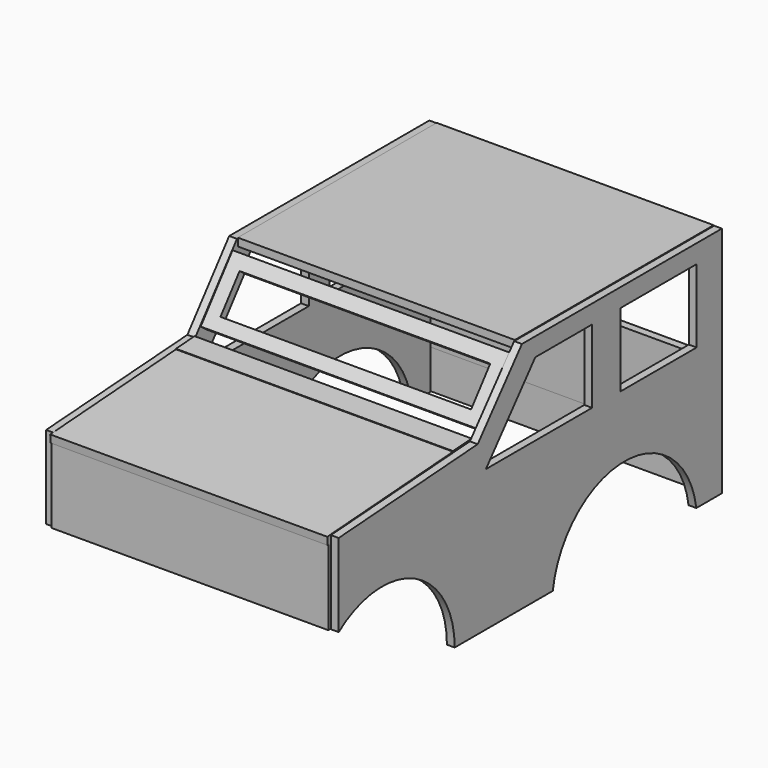
from build123d import *

# Parameters (mm, degrees)
SKETCH_W               = 39.715855
SKETCH_H               = 30
EXTRUDE_DEPTH          = 3
SKETCH001_W            = 36.658256
SKETCH001_H            = 28.340653
EXTRUDE001_DEPTH       = 3
SKETCH002_W            = 106.881084
SKETCH002_H            = 31.778965
EXTRUDE002_DEPTH       = 3
BOX_W                  = 107
BOX_H                  = 96
BOX_DEPTH              = 3
SKETCH004_W            = 96.8
SKETCH004_H            = 15
EXTRUDE004_DEPTH       = 3
SKETCH003_W            = 106.881084
SKETCH003_H            = 25
EXTRUDE003_DEPTH       = 3
CUT_PLACEMENT_ANGLE    = 322
BOX001_W               = 107
BOX001_H               = 61
BOX001_DEPTH           = 3
BOX001_PLACEMENT_ANGLE = 4
BOX002_W               = 107
BOX002_H               = 9
BOX002_DEPTH           = 3
BOX002_PLACEMENT_ANGLE = 4
BOX003_W               = 108
BOX003_H               = 3
BOX003_DEPTH           = 15
BOX005_W               = 94
BOX005_H               = 3
BOX005_DEPTH           = 35
BOX004_W               = 108
BOX004_H               = 3
BOX004_DEPTH           = 73


with BuildPart() as extrude_body:
    # Sketch → Extrude (new body)
    with BuildSketch(Plane.YZ):
        with BuildLine():
            Line((-11.38547, 22.733334), (85.221185, 22.733334))
            Line((85.221185, 22.733334), (85.221185, -67.266666))
            Line((85.221185, -67.266666), (72.862201, -67.266666))
            ThreePointArc((72.862201, -67.266666), (38.221185, -37.266666), (3.580169, -67.266666))
            Line((3.580169, -67.266666), (-43.778815, -67.266666))
            ThreePointArc((-43.778815, -67.266666), (-63.126339, -35.961715), (-99.778815, -39.266666))
            Line((-99.778815, -39.266666), (-99.778815, -7.266666))
            Line((-31.557214, -2.653732), (-99.778815, -7.266666))
            Line((-31.557214, -2.653732), (-11.38547, 22.733334))
        make_face()
        Polygon((-4.881611, 15.763075), (23.290782, 15.763075), (23.290782, -14.236925), (-28.718644, -14.236925), align=None, mode=Mode.SUBTRACT)
        with Locations((53.148709, 0.763075)):
            Rectangle(SKETCH_W, SKETCH_H, mode=Mode.SUBTRACT)
    extrude(amount=EXTRUDE_DEPTH)


with BuildPart() as extrude_body_1:
    # Extrude placement: moved
    add(extrude_body.part.moved(Location((-55, 0, 0))))


with BuildPart() as extrude001:
    # Sketch001 → Extrude001 (new body)
    with BuildSketch(Plane.YZ):
        with BuildLine():
            Line((-11.329836, 22.733765), (85.220164, 22.733765))
            Line((85.220164, 22.733765), (85.220164, -67.266235))
            Line((85.220164, -67.266235), (72.86118, -67.266235))
            ThreePointArc((72.86118, -67.266235), (38.220164, -37.266235), (3.579148, -67.266235))
            Line((3.579148, -67.266235), (-43.779836, -67.266235))
            ThreePointArc((-43.779836, -67.266235), (-63.12736, -35.961284), (-99.779836, -39.266235))
            Line((-99.779836, -39.266235), (-99.779836, -7.266235))
            Line((-32.683025, -2.653741), (-99.779836, -7.266235))
            Line((-32.683025, -2.653741), (-11.329836, 22.733765))
        make_face()
        Polygon((-4.881601, 15.609133), (22.543116, 15.609133), (22.543116, -12.73152), (-28.718654, -12.73152), align=None, mode=Mode.SUBTRACT)
        with Locations((54.677509, 1.438807)):
            Rectangle(SKETCH001_W, SKETCH001_H, mode=Mode.SUBTRACT)
    extrude(amount=EXTRUDE001_DEPTH)


with BuildPart() as extrude001_1:
    # Extrude001 placement: moved
    add(extrude001.part.moved(Location((55, 0, 0))))


with BuildPart() as extrude002:
    # Sketch002 → Extrude002 (new body)
    with BuildSketch(Plane.XZ):
        with Locations((1.516382, -23.214284)):
            Rectangle(SKETCH002_W, SKETCH002_H)
    extrude(amount=EXTRUDE002_DEPTH)


with BuildPart() as extrude002_1:
    # Extrude002 placement: moved
    add(extrude002.part.moved(Location((0, -98, 0))))


with BuildPart() as cubo:
    # Box → Box (new body)
    with BuildSketch(Plane(origin=(-52, -11, 20), x_dir=(1, 0, 0), z_dir=(0, 0, 1))):
        with Locations((53.5, 48)):
            Rectangle(BOX_W, BOX_H)
    extrude(amount=BOX_DEPTH)


with BuildPart() as extrude004:
    # Sketch004 → Extrude004 (new body)
    with BuildSketch(Plane.XZ):
        with Locations((3.728497, -25.204735)):
            Rectangle(SKETCH004_W, SKETCH004_H)
    extrude(amount=EXTRUDE004_DEPTH)


with BuildPart() as extrude004_1:
    # Extrude004 placement: moved
    add(extrude004.part.moved(Location((-2, -28, 35))))


with BuildPart() as cut:
    # Sketch003 → Extrude003 (new body)
    with BuildSketch(Plane.XZ):
        with Locations((1.516382, -23.033162)):
            Rectangle(SKETCH003_W, SKETCH003_H)
    extrude(amount=EXTRUDE003_DEPTH)


with BuildPart() as cut_1:
    # Extrude003 placement: moved
    add(cut.part.moved(Location((0, -28, 33))))

    # Cut: cut Extrude004
    add(extrude004_1.part, mode=Mode.SUBTRACT)


with BuildPart() as cut_2:
    # Cut placement: moved
    add(cut_1.part.moved(Location((0, -3, -17))).rotate(Axis((0, -3, -17), (1, 0, 0)), CUT_PLACEMENT_ANGLE))


with BuildPart() as cubo001:
    # Box001 → Box001 (new body)
    with BuildSketch(Plane.XY):
        with Locations((53.5, 30.5)):
            Rectangle(BOX001_W, BOX001_H)
    extrude(amount=BOX001_DEPTH)


with BuildPart() as cubo001_1:
    # Box001 placement: moved
    add(cubo001.part.moved(Location((-52, -101.332994, -10.100545))).rotate(Axis((-52, -101.332994, -10.100545), (1, 0, 0)), BOX001_PLACEMENT_ANGLE))


with BuildPart() as cubo002:
    # Box002 → Box002 (new body)
    with BuildSketch(Plane.XY):
        with Locations((53.5, 4.5)):
            Rectangle(BOX002_W, BOX002_H)
    extrude(amount=BOX002_DEPTH)


with BuildPart() as cubo002_1:
    # Box002 placement: moved
    add(cubo002.part.moved(Location((-52, -40.628408, -5.641002))).rotate(Axis((-52, -40.628408, -5.641002), (1, 0, 0)), BOX002_PLACEMENT_ANGLE))


with BuildPart() as cubo003:
    # Box003 → Box003 (new body)
    with BuildSketch(Plane(origin=(-52, 82, -67), x_dir=(1, 0, 0), z_dir=(0, 0, 1))):
        with Locations((54, 1.5)):
            Rectangle(BOX003_W, BOX003_H)
    extrude(amount=BOX003_DEPTH)


with BuildPart() as cubo005:
    # Box005 → Box005 (new body)
    with BuildSketch(Plane(origin=(-46, 0, -21), x_dir=(1, 0, 0), z_dir=(0, 0, 1))):
        with Locations((47, 1.5)):
            Rectangle(BOX005_W, BOX005_H)
    extrude(amount=BOX005_DEPTH)


with BuildPart() as cut001:
    # Box004 → Box004 (new body)
    with BuildSketch(Plane(origin=(-52, 0, -52), x_dir=(1, 0, 0), z_dir=(0, 0, 1))):
        with Locations((54, 1.5)):
            Rectangle(BOX004_W, BOX004_H)
    extrude(amount=BOX004_DEPTH)

    # Cut001: cut Cubo005
    add(cubo005.part, mode=Mode.SUBTRACT)


with BuildPart() as cut001_1:
    # Cut001 placement: moved
    add(cut001.part.moved(Location((0, 82, 0))))


solid = Compound([extrude_body_1.part, extrude001_1.part, extrude002_1.part, cubo.part, cut_2.part, cubo001_1.part, cubo002_1.part, cubo003.part, cut001_1.part])
